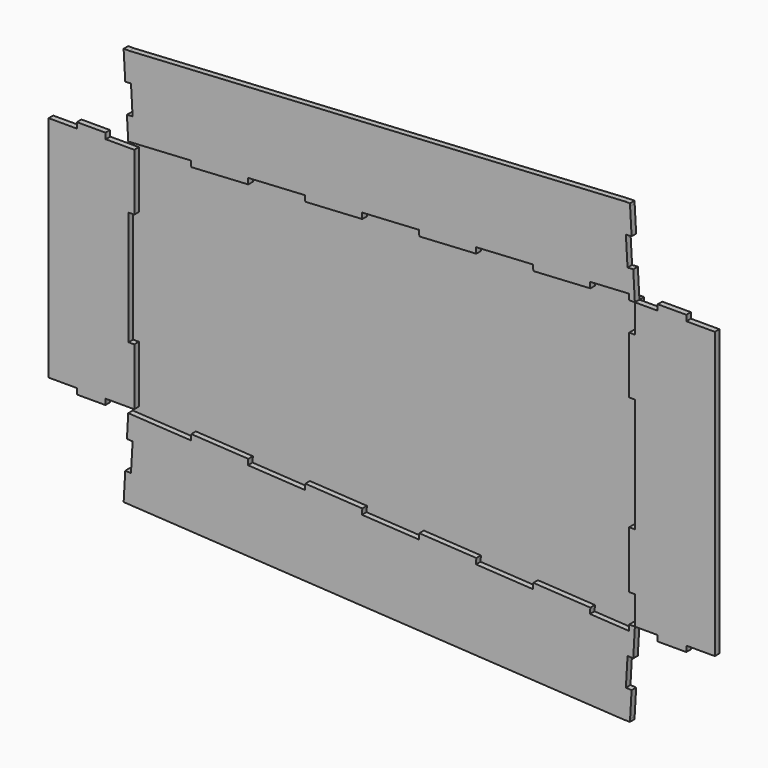
from build123d import *

# Parameters (mm, degrees)
F1_DEPTH = 3
F2_DEPTH = 3


with BuildPart() as f1:
    # F0 (on Front) → F1 (new body)
    with BuildSketch(Plane.XZ):
        Polygon((-130, 60), (-133, 60), (-145, 60), (-145.173077, 63), (-160.173077, 63), (-160.173077, 60), (-175, 60), (-175, 0), (-175, -60), (-160.173077, -60), (-160.173077, -63), (-145.173077, -63), (-145, -60), (-133, -60), (-130, -60), (-130, -30), (-133, -30), (-133, 0), (-133, 30), (-130, 30), align=None)
        Polygon((-100.224086, -64.727896), (-133.164295, -62.827499), (-133.870123, -74.974742), (-130.875289, -75.15075), (-131.739237, -90.125849), (-134.734257, -89.95306), (-135.588067, -104.752438), (127.40768, -119.92527), (130.412652, -119.925556), (130.494158, -118.512793), (131.2766, -104.950457), (128.28158, -104.777667), (129.145528, -89.802568), (132.140548, -89.975358), (133, -75), (130, -75), (129.918192, -78.000269), (109.427593, -76.818119), (109.600383, -73.823099), (79.650184, -72.095203), (79.477395, -75.090223), (49.527197, -73.362327), (49.699986, -70.367307), (19.749788, -68.639411), (19.576998, -71.634431), (-10.3732, -69.906535), (-10.20041, -66.911515), (-40.150609, -65.183619), (-40.323398, -68.178639), (-70.273596, -66.450743), (-70.100807, -63.455723), (-100.051005, -61.727827), align=None)
        Polygon((-130.174284, 63), (-100.224086, 64.727896), (-100.051005, 61.727827), (-70.100807, 63.455723), (-70.273596, 66.450743), (-40.323398, 68.178639), (-40.150609, 65.183619), (-10.20041, 66.911515), (-10.3732, 69.906535), (19.576998, 71.634431), (19.749788, 68.639411), (49.699986, 70.367307), (49.527197, 73.362327), (79.477395, 75.090223), (79.650184, 72.095203), (109.600383, 73.823099), (109.427593, 76.818119), (130.015937, 78.005908), (130, 75), (133, 75), (132.140548, 89.975358), (129.145528, 89.802568), (128.28158, 104.777667), (131.2766, 104.950457), (130.494158, 118.512793), (130.412652, 119.925556), (127.40768, 119.92527), (-132.593047, 104.925228), (-135.598205, 104.928159), (-134.734257, 89.95306), (-131.739237, 90.125849), (-130.875289, 75.15075), (-133.870123, 74.974742), (-133.164225, 62.8263), align=None)
        Polygon((145, 75), (133, 75), (133, 60), (130, 60), (130, 30), (133, 30), (133, 0), (133, -30), (130, -30), (130, -60), (133, -60), (133, -75), (145, -75), (145, -78), (160, -78), (160, -75), (175, -75), (175, 0), (175, 75), (160, 75), (160, 78), (145, 78), align=None)
    extrude(amount=F1_DEPTH)


with BuildPart() as f2:
    # F0 (on Front) → F2 (new body)
    with BuildSketch(Plane.XZ):
        Polygon((-100.051005, 61.727827), (-100.224086, 64.727896), (-130.174284, 63), (-133.164225, 62.8263), (-133, 60), (-130, 60), (-130, 30), (-133, 30), (-133, 0), (-133, -30), (-130, -30), (-130, -60), (-133, -60), (-133.164295, -62.827499), (-100.224086, -64.727896), (-100.051005, -61.727827), (-70.100807, -63.455723), (-70.273596, -66.450743), (-40.323398, -68.178639), (-40.150609, -65.183619), (-10.20041, -66.911515), (-10.3732, -69.906535), (19.576998, -71.634431), (19.749788, -68.639411), (49.699986, -70.367307), (49.527197, -73.362327), (79.477395, -75.090223), (79.650184, -72.095203), (109.600383, -73.823099), (109.427593, -76.818119), (129.918192, -78.000269), (130, -75), (133, -75), (133, -60), (130, -60), (130, -30), (133, -30), (133, 0), (133, 30), (130, 30), (130, 60), (133, 60), (133, 75), (130, 75), (130.015937, 78.005908), (109.427593, 76.818119), (109.600383, 73.823099), (79.650184, 72.095203), (79.477395, 75.090223), (49.527197, 73.362327), (49.699986, 70.367307), (19.749788, 68.639411), (19.576998, 71.634431), (-10.3732, 69.906535), (-10.20041, 66.911515), (-40.150609, 65.183619), (-40.323398, 68.178639), (-70.273596, 66.450743), (-70.100807, 63.455723), align=None)
    extrude(amount=-F2_DEPTH)


solid = Compound([f1.part, f2.part])
